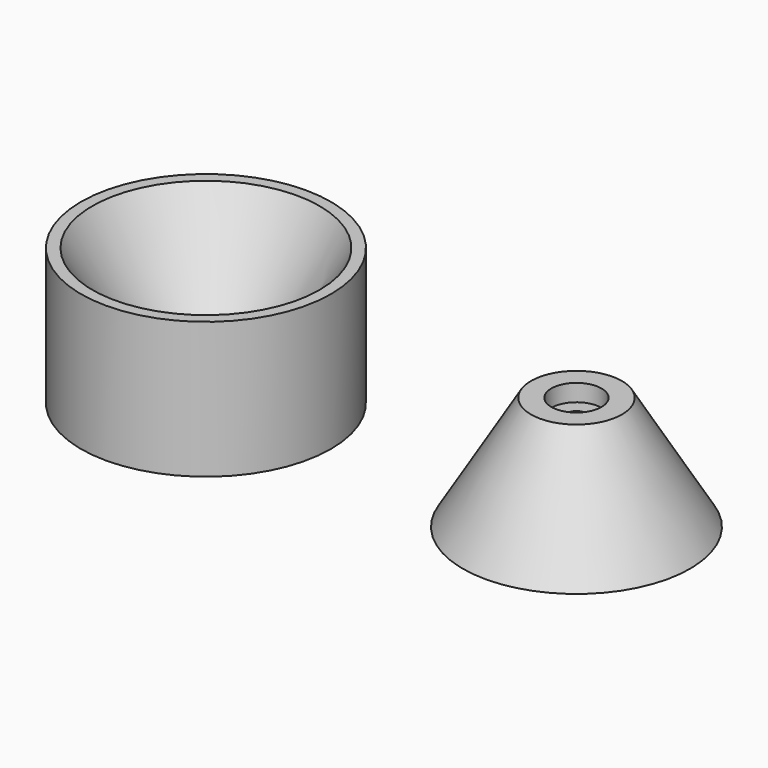
from build123d import *

# Parameters (mm, degrees)
F2_R      = 4.5
F3_DEPTH  = 50.001
F2_R_2    = 11.05
F4_DEPTH  = 7.5
F5_R      = 11.05
F5_R_2    = 4.5
F6_DEPTH  = 7.5
F7_R      = 55
F8_DEPTH  = 55
F11_R     = 20
F9_R      = 50
F13_DEPTH = 5
F14_R     = 4.5
F15_DEPTH = 60.0010001
F14_R_2   = 11.05
F16_DEPTH = 7.5


with BuildPart() as f1:
    # F0 (on Right) → F1 (revolve)
    with BuildSketch(Plane.YZ):
        Polygon((-50, 0), (0, 0), (0, 50), (-20, 50), align=None)
    revolve(axis=Axis((0, 0, 12.6269906759), (0, 0, 1)))

    # F2 (on face) → F3 (cut, through all)
    with BuildSketch(Plane(origin=(0, 0, 0), x_dir=(1, 0, 0), z_dir=(0, 0, -1))):
        Circle(F2_R)
    extrude(amount=-F3_DEPTH, mode=Mode.SUBTRACT)

    # F2 (on face) → F4 (cut)
    with BuildSketch(Plane(origin=(0, 0, 0), x_dir=(1, 0, 0), z_dir=(0, 0, -1))):
        Circle(F2_R_2)
        Circle(F2_R, mode=Mode.SUBTRACT)
    extrude(amount=-F4_DEPTH, mode=Mode.SUBTRACT)

    # F5 (on face) → F6 (cut)
    with BuildSketch(Plane.XY.offset(50)):
        Circle(F5_R)
        Circle(F5_R_2, mode=Mode.SUBTRACT)
    extrude(amount=-F6_DEPTH, mode=Mode.SUBTRACT)


with BuildPart() as f8:
    # F7 (on Top) → F8 (new body)
    with BuildSketch(Plane.XY):
        with Locations((-163.0182683468, 0)):
            Circle(F7_R)
    extrude(amount=F8_DEPTH)

    # F11 (on offset) → F12 section 0
    with BuildSketch(Plane(origin=(0, 0, 5), x_dir=(1, 0, 0), z_dir=(0, 0, -1))):
        with Locations((-162.5203639269, 0)):
            Circle(F11_R)
    # F9 (on face) → F12 section 1
    with BuildSketch(Plane.XY.offset(55)):
        with Locations((-163.0182683468, 0)):
            Circle(F9_R)
    loft(mode=Mode.SUBTRACT)

    # F13 (add): a face of the model
    f13_faces = [f8.faces().sort_by_distance(p)[0] for p in [
        (-163.0182683468, 0, 0),
    ]]
    extrude(f13_faces, amount=F13_DEPTH)

    # F14 (on face) → F15 (cut, through all)
    with BuildSketch(Plane(origin=(0, 0, -5), x_dir=(1, 0, 0), z_dir=(0, 0, -1))):
        with Locations((-163.0182683468, 0)):
            Circle(F14_R)
    extrude(amount=-F15_DEPTH, mode=Mode.SUBTRACT)

    # F14 (on face) → F16 (cut)
    with BuildSketch(Plane(origin=(0, 0, -5), x_dir=(1, 0, 0), z_dir=(0, 0, -1))):
        with Locations((-163.0182683468, 0)):
            Circle(F14_R_2)
        with Locations((-163.0182683468, 0)):
            Circle(F14_R, mode=Mode.SUBTRACT)
    extrude(amount=-F16_DEPTH, mode=Mode.SUBTRACT)


solid = Compound([f1.part, f8.part])
